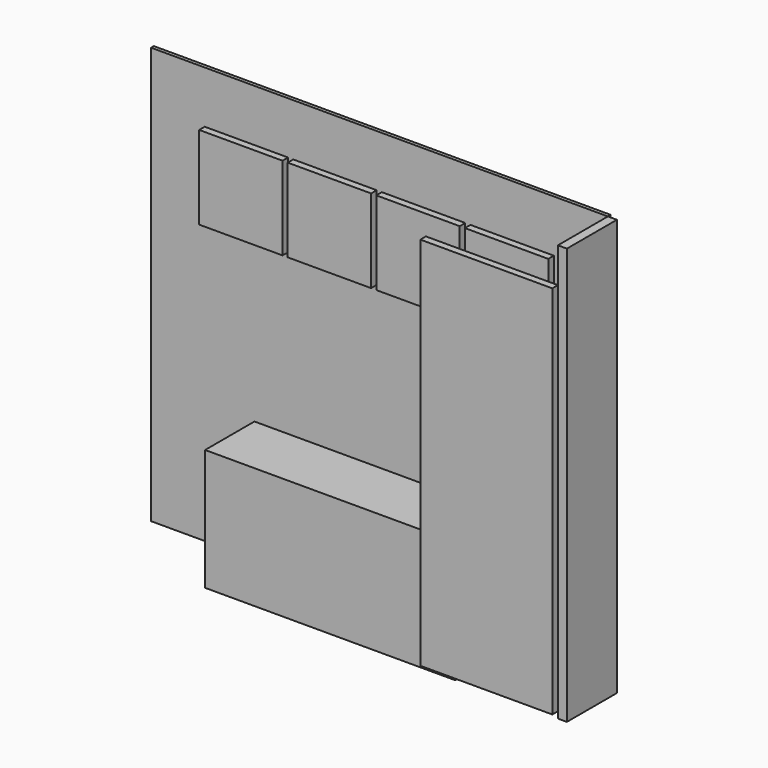
from build123d import *

# Parameters (mm, degrees)
F0_W     = 3340.1
F0_H     = 3048
F1_DEPTH = 25.4
F2_W     = 609.6
F2_H     = 609.6
F3_DEPTH = 50.8
F2_W_2   = 1828.8
F2_H_2   = 887.543977
F4_DEPTH = 450.85
F2_W_3   = 65.866615
F2_H_3   = 3046.567153
F5_DEPTH = 457.2
F6_W     = 965.2
F6_H     = 2743.2
F7_DEPTH = 50.8


with BuildPart() as f1:
    # F0 (on Front) → F1 (new body)
    with BuildSketch(Plane.XZ):
        Rectangle(F0_W, F0_H)
    extrude(amount=F1_DEPTH)


with BuildPart() as f3:
    # F2 (on face) → F3 (new body)
    with BuildSketch(Plane.XZ.offset(25.4)):
        with Locations((-973.182738, 838.029981)):
            Rectangle(F2_W, F2_H)
        with Locations((-325.482738, 838.029981)):
            Rectangle(F2_W, F2_H)
        with Locations((322.217262, 838.029981)):
            Rectangle(F2_W, F2_H)
        with Locations((969.917262, 838.029981)):
            Rectangle(F2_W, F2_H)
    extrude(amount=F3_DEPTH)


with BuildPart() as f4:
    # F2 (on face) → F4 (new body)
    with BuildSketch(Plane.XZ.offset(25.4)):
        with Locations((0, -1080.228011)):
            Rectangle(F2_W_2, F2_H_2)
    extrude(amount=F4_DEPTH)


with BuildPart() as f5:
    # F2 (on face) → F5 (new body)
    with BuildSketch(Plane.XZ.offset(25.4)):
        with Locations((1702.983307, 0.716424)):
            Rectangle(F2_W_3, F2_H_3)
    extrude(amount=F5_DEPTH)


with BuildPart() as f7:
    # F6 (on face) → F7 (new body)
    with BuildSketch(Plane.XZ.offset(482.6)):
        with Locations((1187.45, -104.024204)):
            Rectangle(F6_W, F6_H)
    extrude(amount=F7_DEPTH)


solid = Compound([f1.part, f3.part, f4.part, f5.part, f7.part])
